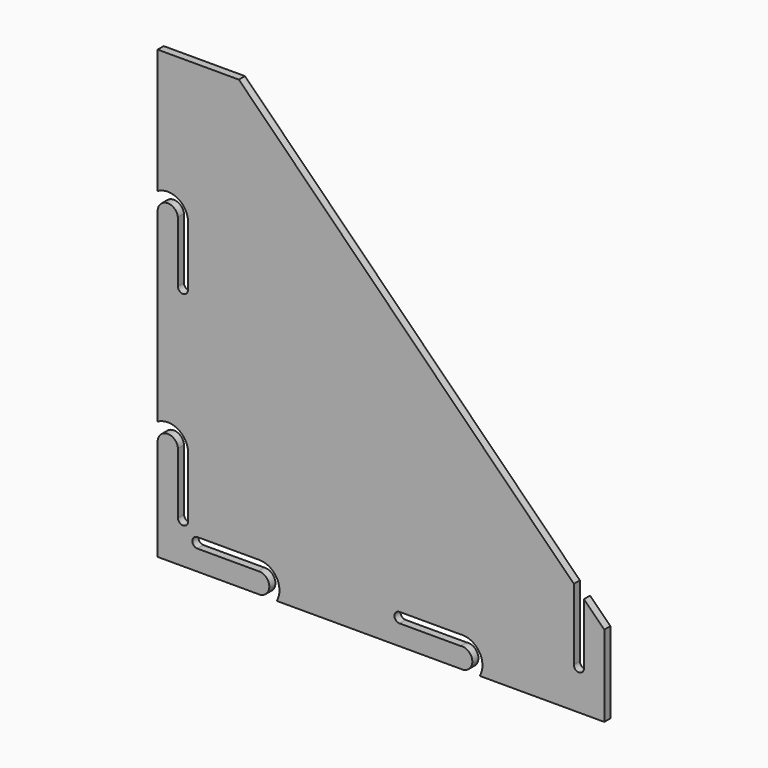
from build123d import *

# Parameters (mm, degrees)
F1_DEPTH = 4.7625


with BuildPart() as f1:
    # F0 (on Front) → F1 (new body)
    with BuildSketch(Plane.XZ):
        with BuildLine():
            Line((-66.415057, 228.6), (-117.215057, 228.6))
            Line((-117.215057, 228.6), (-117.215057, 150.698523))
            ThreePointArc((-117.215057, 150.698523), (-104.037951, 150.408904), (-98.21409, 138.585087))
            Line((-98.21409, 138.585087), (-98.21409, 102.387595))
            ThreePointArc((-98.21409, 102.387595), (-101.38909, 99.212595), (-104.564089, 102.387595))
            Line((-104.564089, 102.387595), (-104.564089, 138.912405))
            Line((-104.564089, 138.912405), (-104.564089, 140.487595))
            ThreePointArc((-104.564089, 140.487595), (-111.259617, 146.03773), (-117.215057, 139.7))
            Line((-117.215057, 139.7), (-117.215057, 23.698523))
            ThreePointArc((-117.215057, 23.698523), (-104.345751, 23.599021), (-98.17113, 12.307299))
            Line((-98.17113, 12.307299), (-98.17113, -25.122353))
            ThreePointArc((-98.17113, -25.122353), (-101.34613, -28.297353), (-104.52113, -25.122353))
            Line((-104.52113, -25.122353), (-104.52113, 12.422353))
            Line((-104.52113, 12.422353), (-104.52113, 12.977647))
            ThreePointArc((-104.52113, 12.977647), (-111.003914, 19.048482), (-117.215057, 12.7))
            Line((-117.215057, 12.7), (-117.215057, -50.8))
            Line((-117.215057, -50.8), (-53.715057, -50.8))
            ThreePointArc((-53.715057, -50.8), (-47.370554, -44.185833), (-54.242934, -38.121979))
            Line((-54.242934, -38.121979), (-92.342934, -38.121979))
            ThreePointArc((-92.342934, -38.121979), (-95.517934, -34.946979), (-92.342934, -31.771979))
            Line((-92.342934, -31.771979), (-54.461912, -31.771979))
            ThreePointArc((-54.461912, -31.771979), (-42.908089, -37.77921), (-42.716534, -50.8))
            Line((-42.716534, -50.8), (73.284943, -50.8))
            ThreePointArc((73.284943, -50.8), (79.611961, -43.910237), (72.209324, -38.191762))
            Line((72.209324, -38.191762), (34.109324, -38.191762))
            ThreePointArc((34.109324, -38.191762), (30.934324, -35.016762), (34.109324, -31.841762))
            Line((34.109324, -31.841762), (71.761023, -31.841762))
            ThreePointArc((71.761023, -31.841762), (83.881911, -37.450409), (84.283466, -50.8))
            Line((84.283466, -50.8), (162.184943, -50.8))
            Line((162.184943, -50.8), (162.184943, 0))
            Line((162.184943, 0), (149.484943, 12.7))
            Line((149.484943, 12.7), (149.484943, -25.502864))
            ThreePointArc((149.484943, -25.502864), (146.309943, -28.677864), (143.134943, -25.502864))
            Line((143.134943, -25.502864), (143.134943, 19.05))
            Line((143.134943, 19.05), (-66.415057, 228.6))
        make_face()
    extrude(amount=F1_DEPTH)


solid = f1.part
